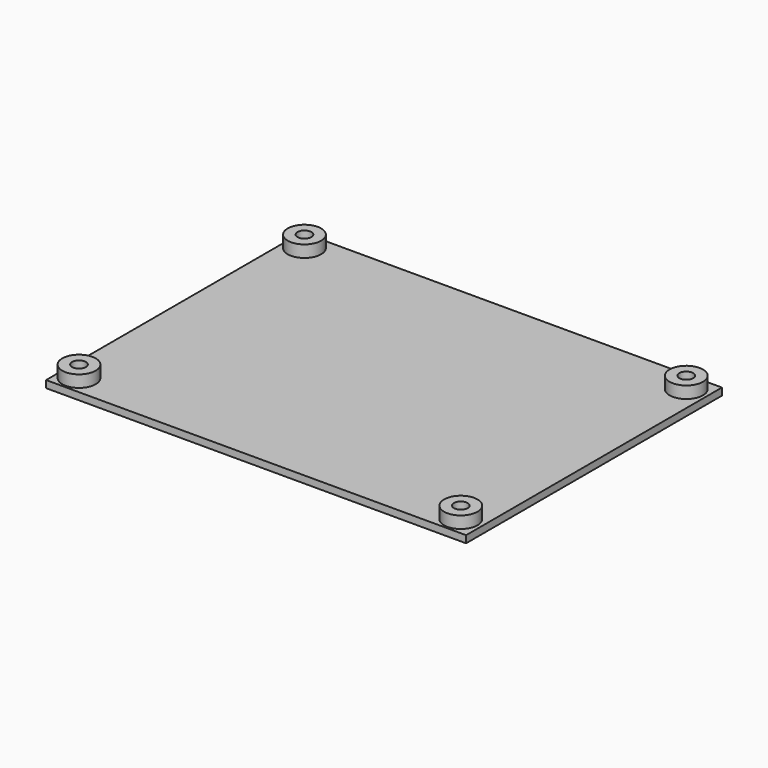
from build123d import *

# Parameters (mm, degrees)
F0_W     = 88
F0_H     = 67
F1_DEPTH = 1.5
F2_R     = 3.5
F3_DEPTH = 4
F4_R     = 1.45
F5_R     = 1.45
F6_R     = 1.45
F7_R     = 1.45
F8_DEPTH = 5


with BuildPart() as f1:
    # F0 (on Top) → F1 (new body)
    with BuildSketch(Plane.XY):
        with Locations((0, -0.916107)):
            Rectangle(F0_W, F0_H)
    extrude(amount=F1_DEPTH)

    # F2 (on face) → F3 (join)
    with BuildSketch(Plane.XY):
        with Locations((-40.190587, 28.489581)):
            Circle(F2_R)
        with Locations((39.809413, 28.488207)):
            Circle(F2_R)
        with Locations((-40.23079, -30.510419)):
            Circle(F2_R)
        with Locations((39.76921, -30.511793)):
            Circle(F2_R)
    extrude(amount=F3_DEPTH)

    # F4 (on face) + F5 (on face) + F6 (on face) + F7 (on face) → F8 (cut)
    with BuildSketch(Plane.XY.offset(4)):
        with Locations((-40.23079, -30.510419)):
            Circle(F4_R)
    with BuildSketch(Plane.XY.offset(4)):
        with Locations((-40.190587, 28.489581)):
            Circle(F5_R)
    with BuildSketch(Plane.XY.offset(4)):
        with Locations((39.76921, -30.511793)):
            Circle(F6_R)
    with BuildSketch(Plane.XY.offset(4)):
        with Locations((39.809413, 28.488207)):
            Circle(F7_R)
    extrude(amount=-F8_DEPTH, mode=Mode.SUBTRACT)


solid = f1.part
